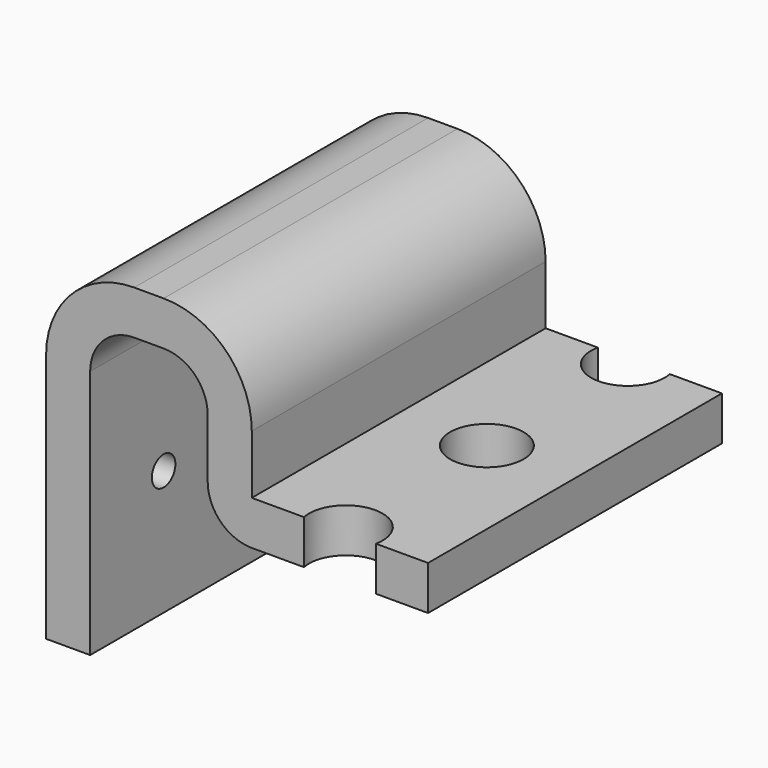
from build123d import *

# Parameters (mm, degrees)
F1_DEPTH = 25
F2_R     = 2.5
F3_DEPTH = 25
F4_R     = 1
F5_DEPTH = 5


with BuildPart() as f1:
    # F0 (on Front) → F1 (new body)
    with BuildSketch(Plane.XZ):
        with BuildLine():
            Line((-3, 0), (0, 0))
            Line((0, 0), (0, 17))
            ThreePointArc((0, 17), (0.87868, 19.12132), (3, 20))
            Line((3, 20), (5, 20))
            ThreePointArc((5, 20), (7.12132, 19.12132), (8, 17))
            Line((8, 17), (8, 13))
            ThreePointArc((8, 13), (8.87868, 10.87868), (11, 10))
            Line((11, 10), (23, 10))
            Line((23, 10), (23, 13))
            Line((23, 13), (11, 13))
            Line((11, 13), (11, 17))
            ThreePointArc((11, 17), (9.242641, 21.242641), (5, 23))
            Line((5, 23), (3, 23))
            ThreePointArc((3, 23), (-1.242641, 21.242641), (-3, 17))
            Line((-3, 17), (-3, 0))
        make_face()
    extrude(amount=F1_DEPTH)

    # F2 (on face) → F3 (cut)
    with BuildSketch(Plane.XY.offset(13)):
        with Locations((17, -12.5)):
            Circle(F2_R)
        with BuildLine():
            Line((14.55051, -25), (19.44949, -25))
            ThreePointArc((19.44949, -25), (19.48734, -24.751272), (19.5, -24.5))
            ThreePointArc((19.5, -24.5), (16.748728, -22.01266), (14.55051, -25))
        make_face()
        with BuildLine():
            ThreePointArc((14.55051, 0), (16.748728, -2.98734), (19.5, -0.5))
            ThreePointArc((19.5, -0.5), (19.48734, -0.248728), (19.44949, 0))
            Line((19.44949, 0), (14.55051, 0))
        make_face()
    extrude(amount=-F3_DEPTH, mode=Mode.SUBTRACT)

    # F4 (on face) → F5 (cut)
    with BuildSketch(Plane(origin=(-3, 0, 0), x_dir=(0, -1, 0), z_dir=(-1, 0, 0))):
        with Locations((18.75, 8.5)):
            Circle(F4_R)
        with Locations((6.25, 8.5)):
            Circle(F4_R)
    extrude(amount=-F5_DEPTH, mode=Mode.SUBTRACT)


solid = f1.part
